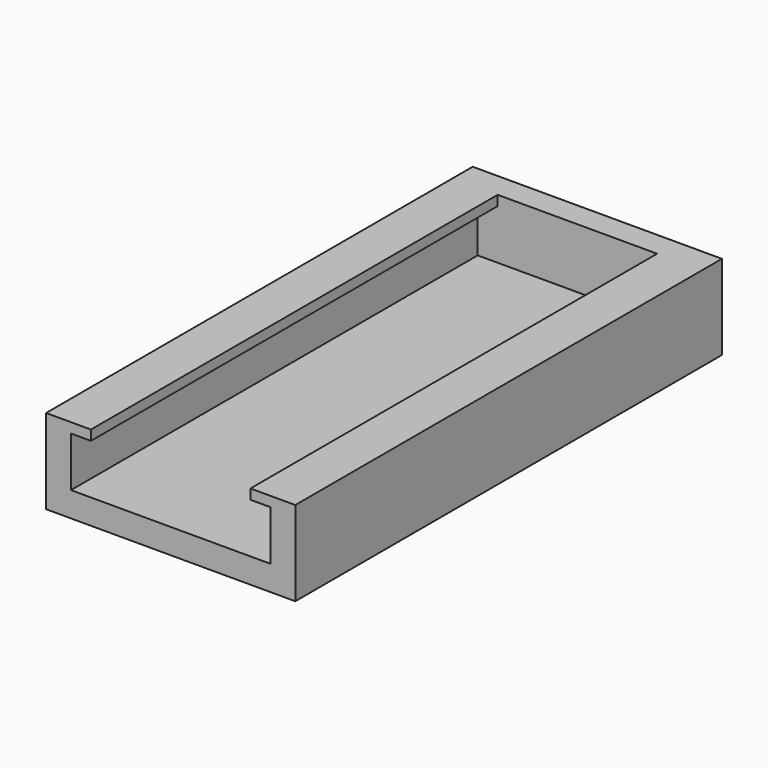
from build123d import *

# Parameters (mm, degrees)
F1_DEPTH = 102
F2_W     = 50
F2_H     = 17
F3_DEPTH = 5


with BuildPart() as f1:
    # F0 (on Front) → F1 (new body)
    with BuildSketch(Plane.XZ):
        Polygon((-16, 8.5), (-25, 8.5), (-25, -8.5), (25, -8.5), (25, 8.5), (16, 8.5), (16, 6.5), (20, 6.5), (20, -3.5), (-20, -3.5), (-20, 6.5), (-16, 6.5), align=None)
    extrude(amount=F1_DEPTH)

    # F2 (on Front) → F3 (join)
    with BuildSketch(Plane.XZ):
        Rectangle(F2_W, F2_H)
    extrude(amount=-F3_DEPTH)


solid = f1.part
